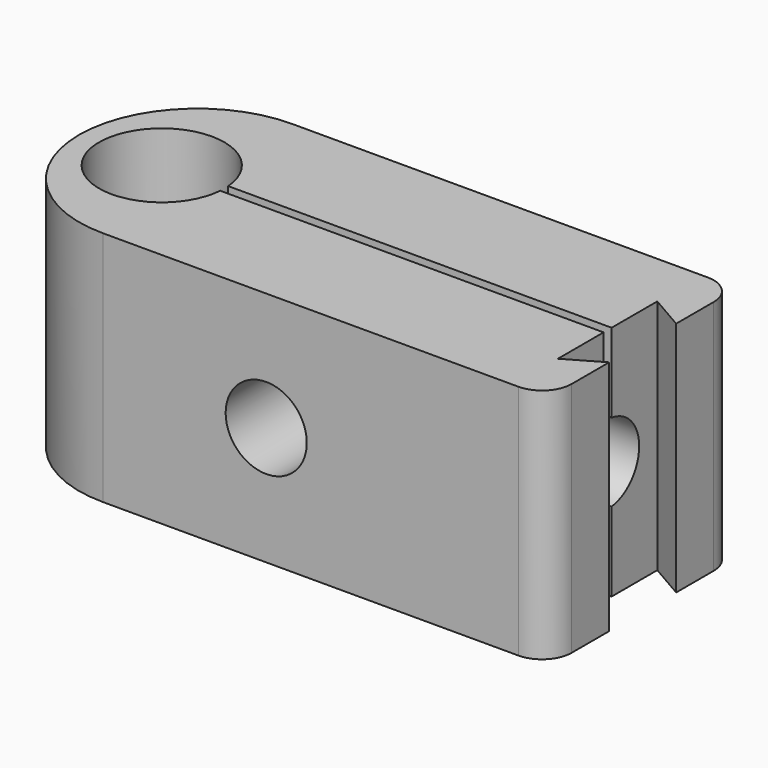
from build123d import *

# Parameters (mm, degrees)
F1_DEPTH = 12
F2_R     = 2.0574
F3_DEPTH = 12.001
F4_R     = 4.0005
F5_DEPTH = 1.016
F6_R     = 2
F7_DEPTH = 28.576
F9_DEPTH = 12.001


with BuildPart() as f1:
    # F0 (on Top) → F1 (new body)
    with BuildSketch(Plane.XY):
        with BuildLine():
            Line((-22.575, 0), (-1.5, 0))
            ThreePointArc((-1.5, 0), (-0.43934, 0.43934), (0, 1.5))
            Line((0, 1.5), (0, 5.746))
            Line((0, 5.746), (-21.219176, 5.746))
            ThreePointArc((-21.219176, 5.746), (-27.559, 6), (-21.219176, 6.254))
            Line((-21.219176, 6.254), (0, 6.254))
            Line((0, 6.254), (0, 10.5))
            ThreePointArc((0, 10.5), (-0.43934, 11.56066), (-1.5, 12))
            Line((-1.5, 12), (-22.575, 12))
            ThreePointArc((-22.575, 12), (-28.575, 6), (-22.575, 0))
        make_face()
    extrude(amount=F1_DEPTH)

    # F2 (on face) → F3 (cut, through all)
    with BuildSketch(Plane(origin=(0, 12, 0), x_dir=(-1, 0, 0), z_dir=(0, 1, 0))):
        with Locations((14.2875, 6)):
            Circle(F2_R)
    extrude(amount=-F3_DEPTH, mode=Mode.SUBTRACT)

    # F4 (on face) → F5 (cut)
    with BuildSketch(Plane(origin=(0, 12, 0), x_dir=(-1, 0, 0), z_dir=(0, 1, 0))):
        with Locations((14.2875, 6)):
            Circle(F4_R)
    extrude(amount=-F5_DEPTH, mode=Mode.SUBTRACT)

    # F6 (on face) → F7 (cut, through all)
    with BuildSketch(Plane.YZ):
        with Locations((6, 6)):
            Circle(F6_R)
    extrude(amount=-F7_DEPTH, mode=Mode.SUBTRACT)

    # F8 (on face) → F9 (cut, through all)
    with BuildSketch(Plane.XY.offset(12)):
        Polygon((0, 6.254), (0, 8.123071), (-1.778, 9.1496), (-1.778, 2.8504), (0, 3.876929), (0, 5.746), align=None)
    extrude(amount=-F9_DEPTH, mode=Mode.SUBTRACT)


solid = f1.part
